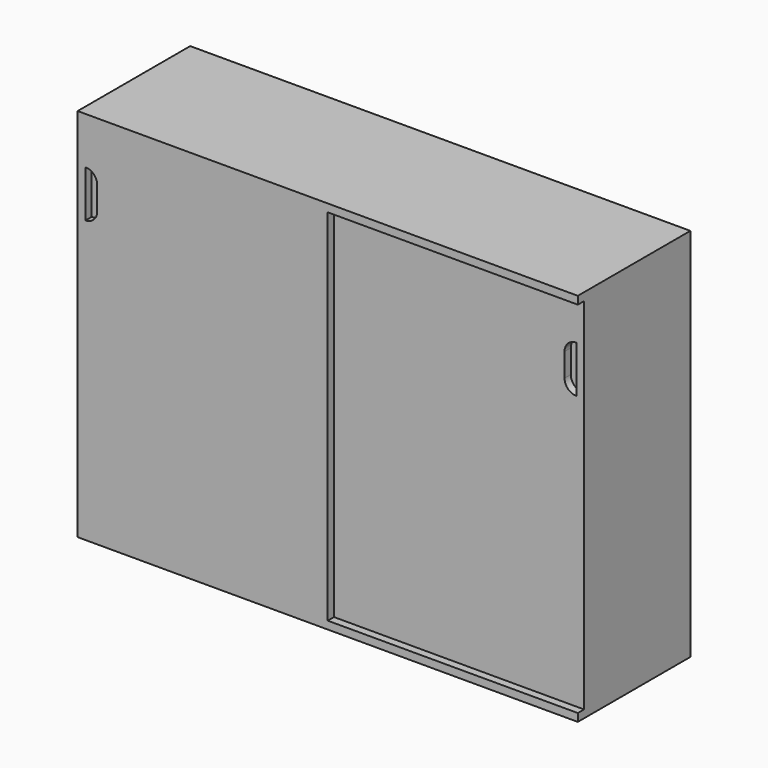
from build123d import *

# Parameters (mm, degrees)
F0_W     = 64
F0_H     = 18
F1_DEPTH = 48
F2_W     = 32
F2_H     = 46
F3_DEPTH = 1
F5_DEPTH = 1
F7_DEPTH = 1


with BuildPart() as f1:
    # F0 (on Top) → F1 (new body)
    with BuildSketch(Plane.XY):
        with Locations((32, 9)):
            Rectangle(F0_W, F0_H)
    extrude(amount=F1_DEPTH)

    # F2 (on face) → F3 (cut)
    with BuildSketch(Plane.XZ):
        with Locations((48, 24)):
            Rectangle(F2_W, F2_H)
    extrude(amount=-F3_DEPTH, mode=Mode.SUBTRACT)

    # F4 (on face) → F5 (cut)
    with BuildSketch(Plane.XZ.offset(-1)):
        with BuildLine():
            ThreePointArc((63, 42), (61.93934, 41.56066), (61.5, 40.5))
            Line((61.5, 40.5), (61.5, 37.5))
            ThreePointArc((61.5, 37.5), (61.93934, 36.43934), (63, 36))
            Line((63, 36), (63, 42))
        make_face()
    extrude(amount=-F5_DEPTH, mode=Mode.SUBTRACT)

    # F6 (on face) → F7 (cut)
    with BuildSketch(Plane.XZ):
        with BuildLine():
            ThreePointArc((2.5, 40.5), (2.06066, 41.56066), (1, 42))
            Line((1, 42), (1, 36))
            ThreePointArc((1, 36), (2.06066, 36.43934), (2.5, 37.5))
            Line((2.5, 37.5), (2.5, 40.5))
        make_face()
    extrude(amount=-F7_DEPTH, mode=Mode.SUBTRACT)


solid = f1.part
